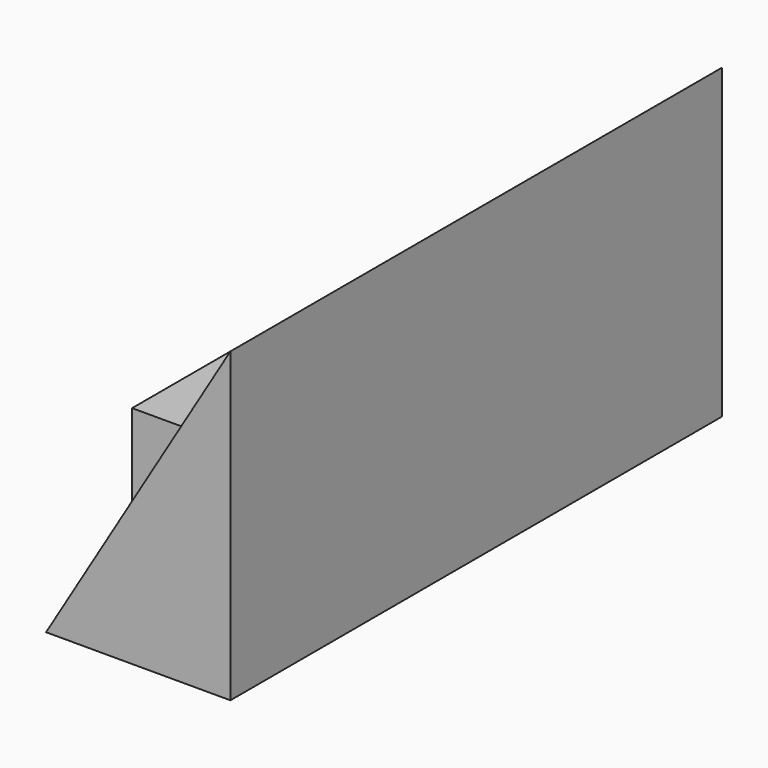
from build123d import *

# Parameters (mm, degrees)
F1_DEPTH = 127
F2_DEPTH = 127
F4_DEPTH = 22.225
F5_DEPTH = 22.225


with BuildPart() as f1:
    # F0 (on Front) → F1 (new body)
    with BuildSketch(Plane.XZ):
        Polygon((-25.837215, 0.707869), (-44.887215, -31.042131), (-6.787215, -31.042131), (-6.787215, 32.457869), align=None)
    extrude(amount=F1_DEPTH)

    # F0 (on Front) → F2 (join)
    with BuildSketch(Plane.XZ):
        Polygon((-44.887215, 0), (-44.887215, -31.042131), (-25.837215, 0.707869), (-44.887215, 0.707869), align=None)
    extrude(amount=F2_DEPTH)

    # F3 (on face) → F4 (cut)
    with BuildSketch(Plane.XZ.offset(127)):
        Polygon((-44.887215, 0.707869), (-44.887215, -31.042131), (-25.837215, 0.707869), align=None)
    extrude(amount=-F4_DEPTH, mode=Mode.SUBTRACT)

    # F0 (on Front) → F5 (cut)
    with BuildSketch(Plane.XZ):
        Polygon((-44.887215, 0), (-44.887215, -31.042131), (-25.837215, 0.707869), (-44.887215, 0.707869), align=None)
    extrude(amount=F5_DEPTH, mode=Mode.SUBTRACT)


solid = f1.part
